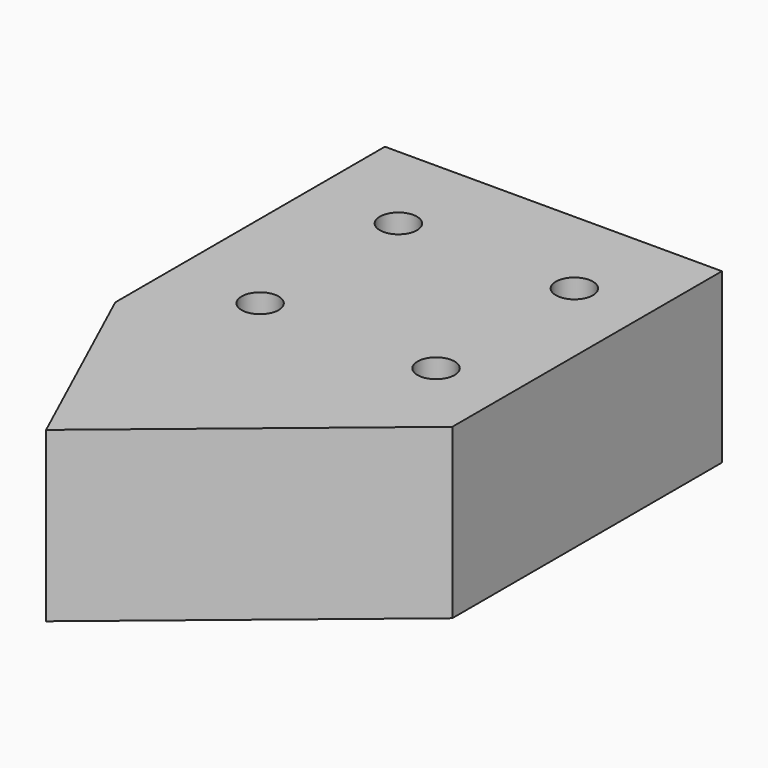
from build123d import *

# Parameters (mm, degrees)
F1_DEPTH = 25
F3_D     = 5.5


with BuildPart() as f1:
    # F0 (on Top) → F1 (new body)
    with BuildSketch(Plane.XY):
        Polygon((0, 50), (0, 0), (13.7339541699, -30), (50, 0), (50, 50), align=None)
    extrude(amount=F1_DEPTH)

    # F3 (through all)
    with Locations(Plane.XY.offset(25)):
        with Locations((13.2459402084, 35.9464995563), (39.3535345793, 35.9464995563), (39.3535345793, 10.2990847081), (13.2459402084, 10.2990847081)):
            Hole(F3_D / 2)


solid = f1.part
